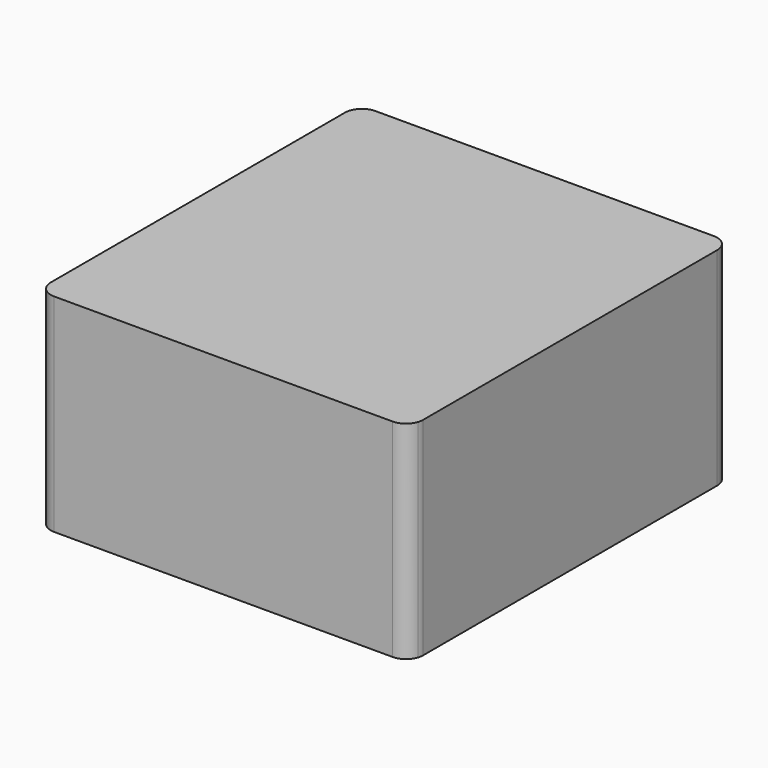
from build123d import *

# Parameters (mm, degrees)
F1_DEPTH = 61.1


with BuildPart() as f1:
    # F0 (on Top) → F1 (new body)
    with BuildSketch(Plane.XY):
        with BuildLine():
            Line((-55.461415, -59.176302), (44.24565, -59.176302))
            ThreePointArc((44.24565, -59.176302), (47.160367, -58.238866), (48.982139, -55.778073))
            ThreePointArc((48.982139, -55.778073), (49.179332, -54.987952), (49.24565, -54.176302))
            Line((49.24565, -54.176302), (49.24565, 54.176302))
            ThreePointArc((49.24565, 54.176302), (47.781184, 57.711835), (44.24565, 59.176302))
            Line((44.24565, 59.176302), (-55.461415, 59.176302))
            ThreePointArc((-55.461415, 59.176302), (-58.996949, 57.711835), (-60.461415, 54.176302))
            Line((-60.461415, 54.176302), (-60.461415, -54.176302))
            ThreePointArc((-60.461415, -54.176302), (-58.996949, -57.711835), (-55.461415, -59.176302))
        make_face()
    extrude(amount=F1_DEPTH)


solid = f1.part
